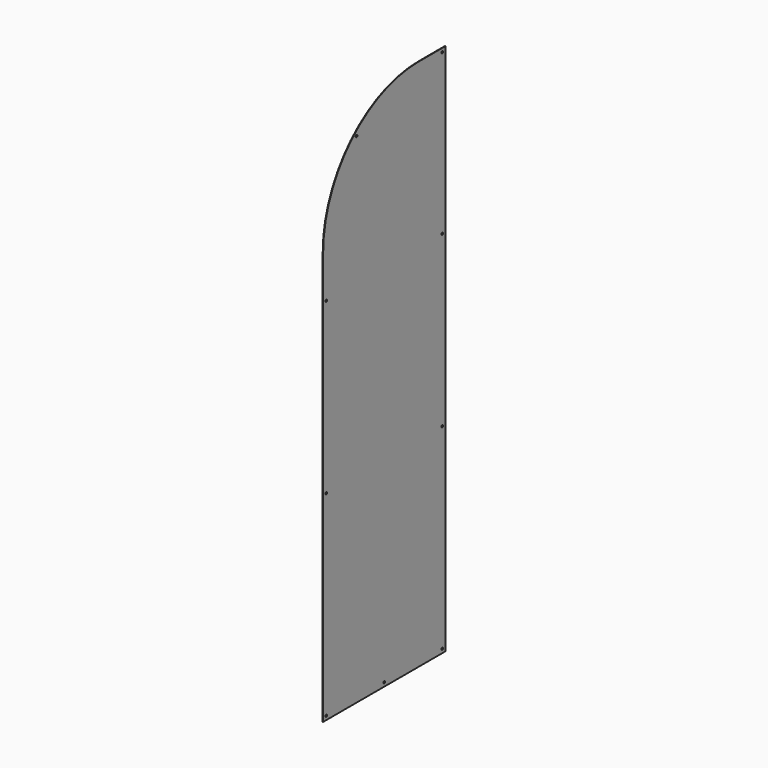
from build123d import *

# Parameters (mm, degrees)
F0_R     = 3.5
F1_DEPTH = 0.75


with BuildPart() as f1:
    # F0 (on Right) → F1 (new body, symmetric)
    with BuildSketch(Plane.YZ):
        with BuildLine():
            Line((255, -890), (255, 890))
            Line((255, 890), (145, 890))
            ThreePointArc((145, 890), (-137.842712, 772.842712), (-255, 490))
            Line((-255, 490), (-255, -890))
            Line((-255, -890), (255, -890))
        make_face()
        with Locations((-242.3, -877.3)):
            Circle(F0_R, mode=Mode.SUBTRACT)
        with Locations((-242.3, -222.647071)):
            Circle(F0_R, mode=Mode.SUBTRACT)
        with Locations((0, -877.3)):
            Circle(F0_R, mode=Mode.SUBTRACT)
        with Locations((242.3, -877.3)):
            Circle(F0_R, mode=Mode.SUBTRACT)
        with Locations((242.3, -222.647071)):
            Circle(F0_R, mode=Mode.SUBTRACT)
        with Locations((-242.3, 343.447447)):
            Circle(F0_R, mode=Mode.SUBTRACT)
        with Locations((-115.641495, 776.47391)):
            Circle(F0_R, mode=Mode.SUBTRACT)
        with Locations((242.3, 343.447447)):
            Circle(F0_R, mode=Mode.SUBTRACT)
        with Locations((242.3, 877.3)):
            Circle(F0_R, mode=Mode.SUBTRACT)
    extrude(amount=F1_DEPTH, both=True)


solid = f1.part
